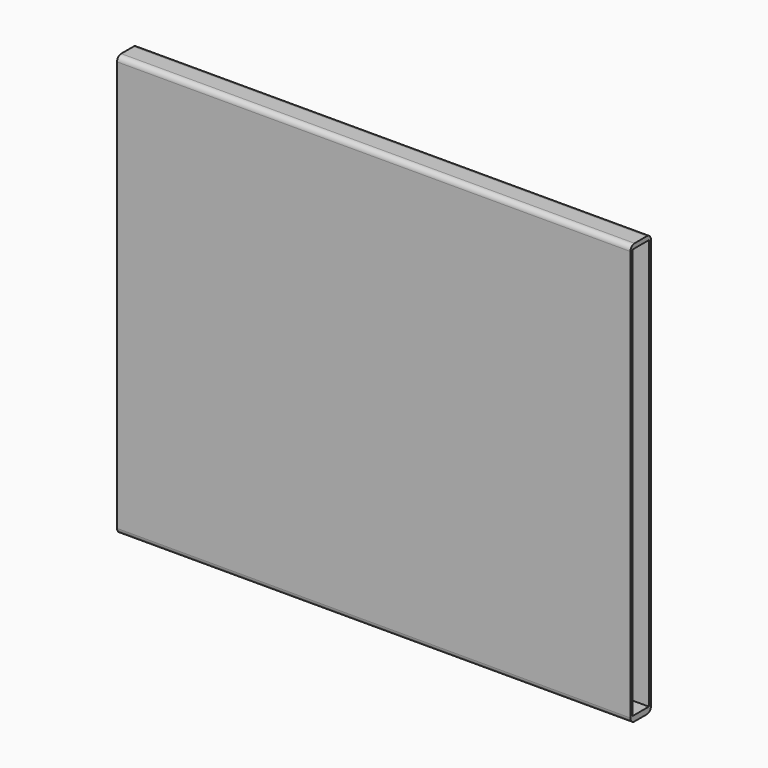
from build123d import *

# Parameters (mm, degrees)
F2_DEPTH = 50
F3_DEPTH = 50.001


with BuildPart() as f2:
    # F1 (on Right) → F2 (new body)
    with BuildSketch(Plane.YZ):
        with BuildLine():
            ThreePointArc((0.75, -20.561926), (1.103553, -20.415479), (1.25, -20.061926))
            Line((1.25, -20.061926), (1.25, 19.938074))
            ThreePointArc((1.25, 19.938074), (1.103553, 20.291627), (0.75, 20.438074))
            Line((0.75, 20.438074), (-0.75, 20.438074))
            ThreePointArc((-0.75, 20.438074), (-1.103553, 20.291627), (-1.25, 19.938074))
            Line((-1.25, 19.938074), (-1.25, -20.061926))
            ThreePointArc((-1.25, -20.061926), (-1.103553, -20.415479), (-0.75, -20.561926))
            Line((-0.75, -20.561926), (0.75, -20.561926))
        make_face()
    extrude(amount=-F2_DEPTH)

    # F0 (on Right) → F3 (cut, through all)
    with BuildSketch(Plane.YZ):
        Polygon((1, -20), (1, 0), (1, 20), (-1, 20), (-1, -20), align=None)
    extrude(amount=-F3_DEPTH, mode=Mode.SUBTRACT)


solid = f2.part
